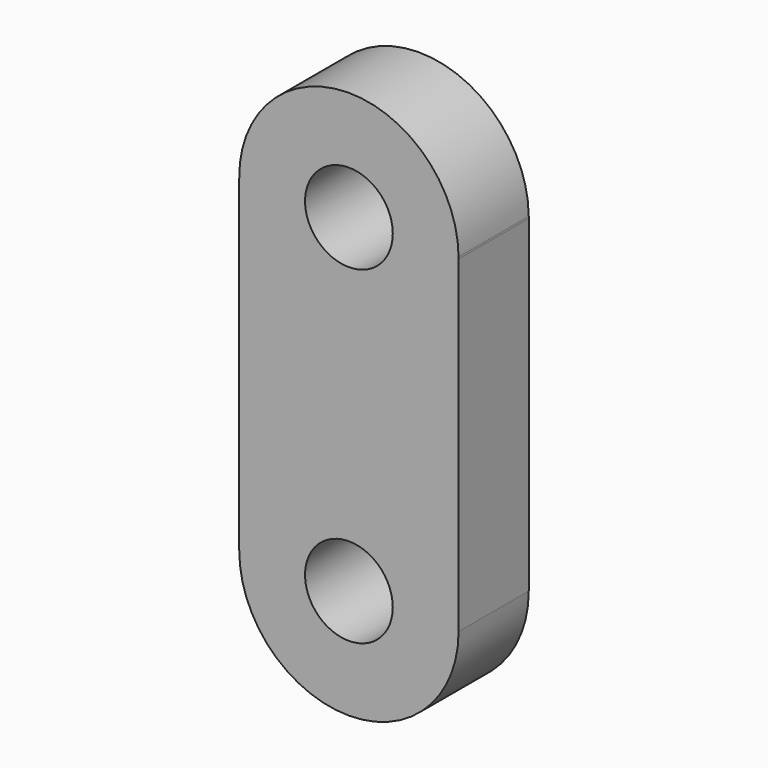
from build123d import *

# Parameters (mm, degrees)
F0_R     = 4
F1_DEPTH = 8


with BuildPart() as f1:
    # F0 (on Front) → F1 (new body)
    with BuildSketch(Plane.XZ):
        with BuildLine():
            Line((-10, 29.910809), (-10, 0))
            ThreePointArc((-10, 0), (0, -10), (10, 0))
            Line((10, 0), (10, 29.910809))
            Line((10, 29.910809), (10, 30.089191))
            ThreePointArc((10, 30.089191), (-0.089191, 40), (-10, 29.910809))
        make_face()
        Circle(F0_R, mode=Mode.SUBTRACT)
        with Locations((0, 30)):
            Circle(F0_R, mode=Mode.SUBTRACT)
        with BuildLine():
            Line((10, 30.089191), (10, 29.910809))
            ThreePointArc((10, 29.910809), (10.000398, 30), (10, 30.089191))
        make_face()
    extrude(amount=F1_DEPTH)


solid = f1.part
